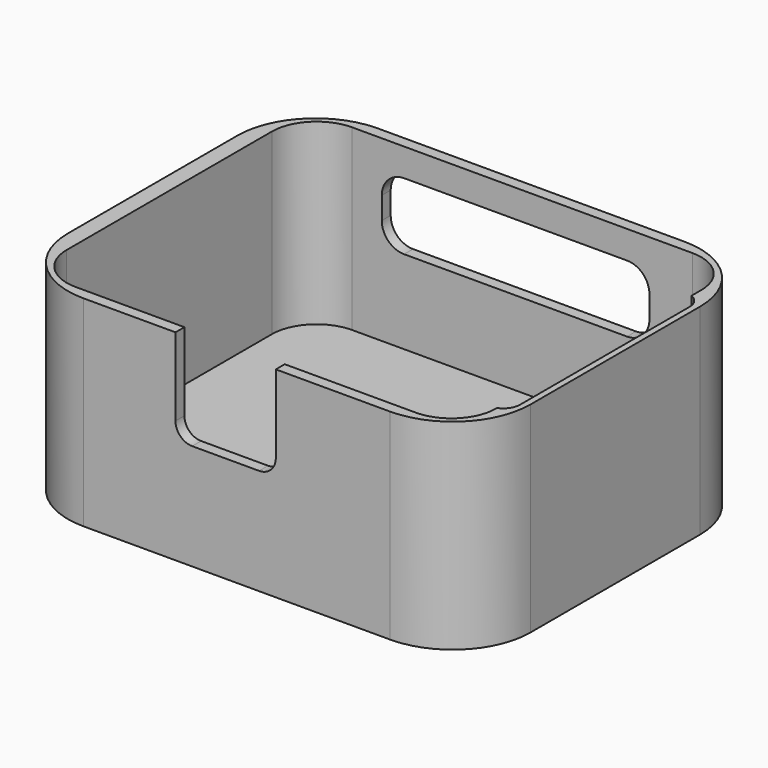
from build123d import *

# Parameters (mm, degrees)
PAD_DEPTH       = 18
POCKET_DEPTH    = 16
POCKET001_DEPTH = 5
POCKET002_DEPTH = 5
POCKET003_DEPTH = 4


with BuildPart() as part:
    # Sketch → Pad (new body)
    with BuildSketch(Plane.XY):
        with BuildLine():
            Line((-13.75, -16.5), (13.75, -16.5))
            ThreePointArc((13.75, -16.5), (18.699747, -14.449747), (20.75, -9.5))
            Line((20.75, -9.5), (20.75, 9.5))
            ThreePointArc((20.75, 9.5), (18.699747, 14.449747), (13.75, 16.5))
            Line((13.75, 16.5), (-13.75, 16.5))
            ThreePointArc((-13.75, 16.5), (-18.699747, 14.449747), (-20.75, 9.5))
            Line((-20.75, 9.5), (-20.75, -9.5))
            ThreePointArc((-20.75, -9.5), (-18.699747, -14.449747), (-13.75, -16.5))
        make_face()
    extrude(amount=PAD_DEPTH)

    # Sketch001 (on Face10 of Pad) → Pocket (cut)
    with BuildSketch(Plane.XY.offset(18)):
        with BuildLine():
            Line((-19.25, 11.5), (-19.25, -11.5))
            ThreePointArc((-19.25, -11.5), (-18.078427, -14.328427), (-15.25, -15.5))
            Line((-15.25, -15.5), (15.25, -15.5))
            ThreePointArc((15.25, -15.5), (18.078427, -14.328427), (19.25, -11.5))
            Line((19.25, -11.5), (19.25, 11.5))
            ThreePointArc((19.25, 11.5), (18.078427, 14.328427), (15.25, 15.5))
            Line((15.25, 15.5), (-15.25, 15.5))
            ThreePointArc((-15.25, 15.5), (-18.078427, 14.328427), (-19.25, 11.5))
        make_face()
    extrude(amount=-POCKET_DEPTH, mode=Mode.SUBTRACT)

    # Sketch002 (on Face1 of Pocket) → Pocket001 (cut)
    with BuildSketch(Plane.XZ.offset(16.5)):
        with BuildLine():
            Line((-5.5, 18), (-5.5, 11))
            ThreePointArc((-5.5, 11), (-5.06066, 9.93934), (-4, 9.5))
            Line((-4, 9.5), (2, 9.5))
            ThreePointArc((2, 9.5), (3.06066, 9.93934), (3.5, 11))
            Line((3.5, 11), (3.5, 18))
            ThreePointArc((3.5, 18), (3.06066, 19.06066), (2, 19.5))
            Line((2, 19.5), (-4, 19.5))
            ThreePointArc((-4, 19.5), (-5.06066, 19.06066), (-5.5, 18))
        make_face()
    extrude(amount=-POCKET001_DEPTH, mode=Mode.SUBTRACT)

    # Sketch003 (on Face13 of Pocket001) → Pocket002 (cut)
    with BuildSketch(Plane(origin=(0, 16.5, 0), x_dir=(-1, 0, 0), z_dir=(0, 1, 0))):
        with BuildLine():
            Line((-11.4, 13.5), (-11.4, 11.5))
            ThreePointArc((-11.4, 11.5), (-10.814214, 10.085786), (-9.4, 9.5))
            Line((-9.4, 9.5), (10.6, 9.5))
            ThreePointArc((10.6, 9.5), (12.014214, 10.085786), (12.6, 11.5))
            Line((12.6, 11.5), (12.6, 13.5))
            ThreePointArc((12.6, 13.5), (12.014214, 14.914214), (10.6, 15.5))
            Line((10.6, 15.5), (-9.4, 15.5))
            ThreePointArc((-9.4, 15.5), (-10.814214, 14.914214), (-11.4, 13.5))
        make_face()
    extrude(amount=-POCKET002_DEPTH, mode=Mode.SUBTRACT)

    # Sketch004 (on Face4 of Pocket002) → Pocket003 (cut)
    with BuildSketch(Plane.XY.offset(18)):
        with BuildLine():
            Line((15.2, 9), (15.2, -10))
            ThreePointArc((15.2, -10), (15.63934, -11.06066), (16.7, -11.5))
            Line((16.7, -11.5), (18.7, -11.5))
            ThreePointArc((18.7, -11.5), (19.76066, -11.06066), (20.2, -10))
            Line((20.2, -10), (20.2, 9))
            ThreePointArc((20.2, 9), (19.76066, 10.06066), (18.7, 10.5))
            Line((18.7, 10.5), (16.7, 10.5))
            ThreePointArc((16.7, 10.5), (15.63934, 10.06066), (15.2, 9))
        make_face()
    extrude(amount=-POCKET003_DEPTH, mode=Mode.SUBTRACT)


solid = part.part
